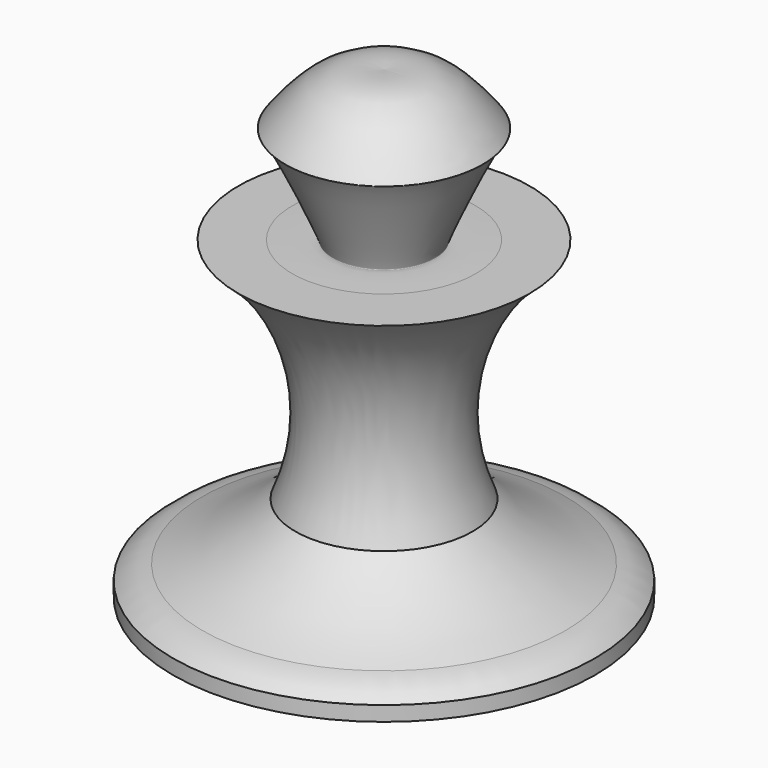
from build123d import *


with BuildPart() as f1:
    # F0 (on Front) → F1 (revolve)
    with BuildSketch(Plane.XZ):
        with BuildLine():
            Line((15.6792800431, 11.4186059087), (9.8847632796, 11.4186059087))
            add(Edge.make_bspline(
                [(0, 27.5604503995), (2.1317835008, 27.7112697413), (6.3191462088, 28.0075171263), (10.8833653593, 21.6465988256), (10.1758417263, 22.501801066), (5.0702319248, 11.0570009201), (5.7221453756, 11.5819976382), (7.955408539, 11.4943372429), (9.8847632796, 11.4186059087)],
                knots=[0, 0, 0, 0, 0.228621689, 0.4490708997, 0.4783767283, 0.7846476238, 0.813953351, 1, 1, 1, 1], degree=3))
            Line((0, 27.5604503995), (0, -22.4395496005))
            Line((0, -22.4395496005), (22.723594889, -22.4395496005))
            Line((22.723594889, -22.4395496005), (22.723594889, -20.8488977653))
            ThreePointArc((22.723594889, -20.8488977653), (21.2697180785, -19.7800217985), (19.5422912187, -19.2582459302))
            ThreePointArc((19.5422912187, -19.2582459302), (14.2457532456, -16.6751263663), (9.5439095269, -13.122875414))
            ThreePointArc((9.5439095269, -13.122875414), (8.49187108, 0.1777962047), (15.6792800431, 11.4186059087))
        make_face()
    revolve(axis=Axis((0, 0, 2.5604503995), (0, 0, -1)))


solid = f1.part
